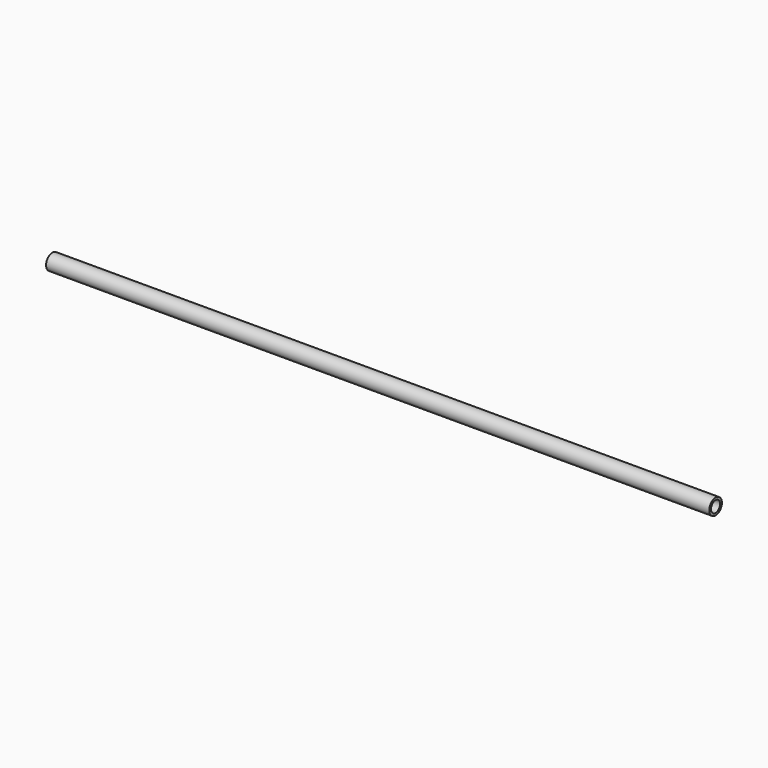
from build123d import *

# Parameters (mm, degrees)
F0_R     = 13.335
F0_R_2   = 9.525
F1_DEPTH = 1117.6
F3_D     = 3.175
F3_DEPTH = 25.4
F3_TIP   = 0.9538662327
F4_D     = 3.175
F4_DEPTH = 25.4
F4_TIP   = 0.9538662327
F5_D     = 3.175
F5_DEPTH = 25.4
F5_TIP   = 0.9538662327
F6_D     = 3.175
F6_DEPTH = 25.4
F6_TIP   = 0.9538662327


with BuildPart() as f1:
    # F0 (on Right) → F1 (new body)
    with BuildSketch(Plane.YZ):
        Circle(F0_R)
        Circle(F0_R_2, mode=Mode.SUBTRACT)
    extrude(amount=F1_DEPTH)

    # F3 (one way)
    with BuildSketch(Plane.XY):
        with Locations((17.9905965924, 0)):
            Circle(F3_D / 2)
    extrude(amount=-F3_DEPTH, mode=Mode.SUBTRACT)
    with Locations(Plane.XY):
        with Locations((17.9905965924, 0)):
            with Locations((0, 0, -(F3_DEPTH + F3_TIP / 2))):  # 118° drill point
                Cone(0, F3_D / 2, F3_TIP, mode=Mode.SUBTRACT)

    # F4 (one way)
    with BuildSketch(Plane.XY):
        with Locations((36.9387045503, 0)):
            Circle(F4_D / 2)
    extrude(amount=-F4_DEPTH, mode=Mode.SUBTRACT)
    with Locations(Plane.XY):
        with Locations((36.9387045503, 0)):
            with Locations((0, 0, -(F4_DEPTH + F4_TIP / 2))):  # 118° drill point
                Cone(0, F4_D / 2, F4_TIP, mode=Mode.SUBTRACT)

    # F5 (one way)
    with BuildSketch(Plane.XY):
        with Locations((76.2924551964, 0)):
            Circle(F5_D / 2)
    extrude(amount=-F5_DEPTH, mode=Mode.SUBTRACT)
    with Locations(Plane.XY):
        with Locations((76.2924551964, 0)):
            with Locations((0, 0, -(F5_DEPTH + F5_TIP / 2))):  # 118° drill point
                Cone(0, F5_D / 2, F5_TIP, mode=Mode.SUBTRACT)

    # F6 (one way)
    with BuildSketch(Plane.XY):
        with Locations((57.1621619165, 0)):
            Circle(F6_D / 2)
    extrude(amount=-F6_DEPTH, mode=Mode.SUBTRACT)
    with Locations(Plane.XY):
        with Locations((57.1621619165, 0)):
            with Locations((0, 0, -(F6_DEPTH + F6_TIP / 2))):  # 118° drill point
                Cone(0, F6_D / 2, F6_TIP, mode=Mode.SUBTRACT)


solid = f1.part
